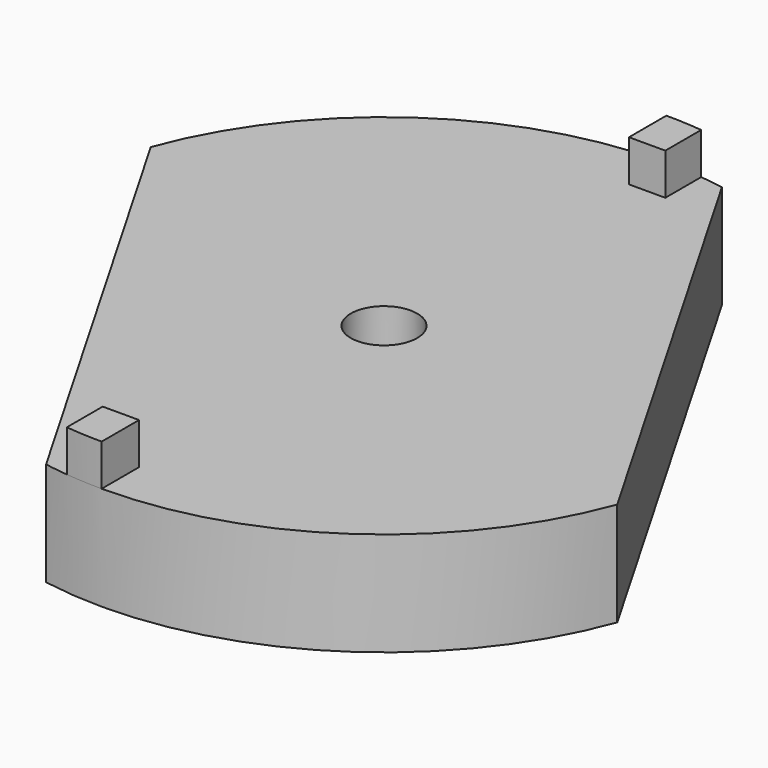
from build123d import *

# Parameters (mm, degrees)
F0_R     = 34
F1_DEPTH = 5
F2_R     = 34
F2_R_2   = 3.2
F3_DEPTH = 5
F5_DEPTH = 10.001
F6_DEPTH = 4


with BuildPart() as f1:
    # F0 (on Top) → F1 (new body)
    with BuildSketch(Plane.XY):
        Circle(F0_R)
        Polygon((0, 5.34048999), (4.625, 2.670244995), (4.625, -2.670244995), (0, -5.34048999), (-4.625, -2.670244995), (-4.625, 2.670244995), align=None, mode=Mode.SUBTRACT)
    extrude(amount=F1_DEPTH)

    # F2 (on face) → F3 (join)
    with BuildSketch(Plane.XY.offset(5)):
        Circle(F2_R)
        Polygon((-4.625, -2.670244995), (-4.625, 2.670244995), (0, 5.34048999), (4.625, 2.670244995), (4.625, -2.670244995), (0, -5.34048999), align=None, mode=Mode.SUBTRACT)
        Polygon((0, 5.34048999), (-4.625, 2.670244995), (-4.625, -2.670244995), (0, -5.34048999), (4.625, -2.670244995), (4.625, 2.670244995), align=None)
        Circle(F2_R_2, mode=Mode.SUBTRACT)
    extrude(amount=F3_DEPTH)

    # F4 (on face) → F5 (cut, through all)
    with BuildSketch(Plane.XY.offset(10)):
        with BuildLine():
            ThreePointArc((34, 0), (25.9934550819, 21.9166670118), (5.7446886526, 33.5111705597))
            Line((5.7446886526, 33.5111705597), (31.8938693416, -11.7805389699))
            ThreePointArc((31.8938693416, -11.7805389699), (33.4693259389, -5.9836628575), (34, 0))
        make_face()
        with BuildLine():
            Line((-5.7446886526, -33.5111705597), (-31.8938693416, 11.7805389699))
            ThreePointArc((-31.8938693416, 11.7805389699), (-29.4448637287, -17), (-5.7446886526, -33.5111705597))
        make_face()
    extrude(amount=-F5_DEPTH, mode=Mode.SUBTRACT)

    # F4 (on face) → F6 (join)
    with BuildSketch(Plane.XY.offset(10)):
        with BuildLine():
            ThreePointArc((3.5, 33.8193731462), (1.7523288833, 33.9548132595), (0, 34))
            Line((0, 34), (0, 29.5))
            Line((0, 29.5), (3.5, 29.5))
            Line((3.5, 29.5), (3.5, 33.8193731462))
        make_face()
        with BuildLine():
            Line((-3.5, -29.5), (-3.5, -33.8193731462))
            ThreePointArc((-3.5, -33.8193731462), (-1.7523288833, -33.9548132595), (0, -34))
            Line((0, -34), (0, -29.5))
            Line((0, -29.5), (-3.5, -29.5))
        make_face()
    extrude(amount=F6_DEPTH)


solid = f1.part
